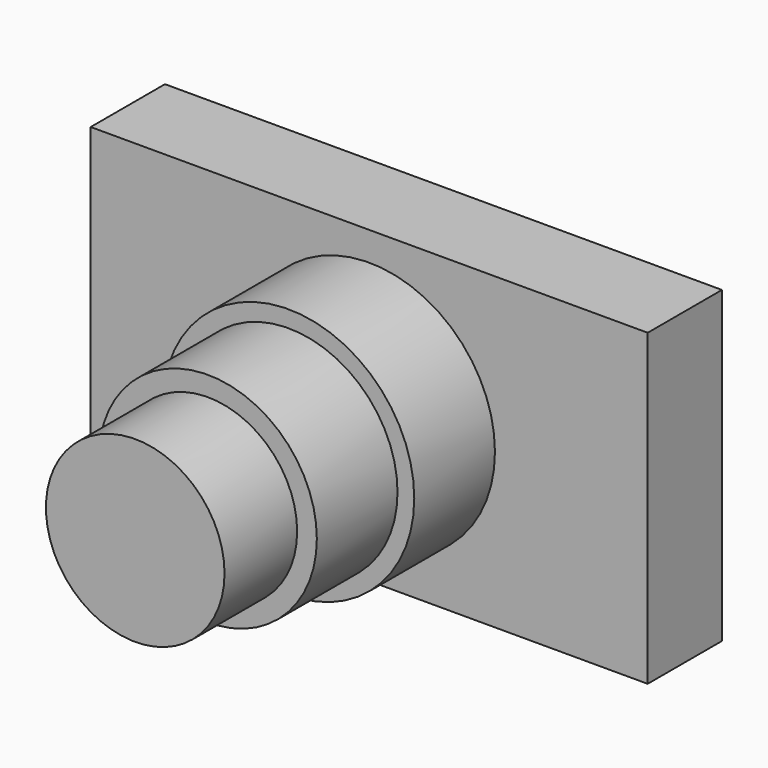
from build123d import *

# Parameters (mm, degrees)
F0_W     = 140.272602
F0_H     = 77.840932
F1_DEPTH = 23.368
F2_R     = 31.667864
F3_DEPTH = 25.4
F4_R     = 27.452249
F5_DEPTH = 25.4
F6_R     = 22.492116
F7_DEPTH = 22.86


with BuildPart() as f1:
    # F0 (on Front) → F1 (new body)
    with BuildSketch(Plane.XZ):
        Rectangle(F0_W, F0_H)
    extrude(amount=F1_DEPTH)

    # F2 (on face) → F3 (join)
    with BuildSketch(Plane.XZ.offset(23.368)):
        Circle(F2_R)
    extrude(amount=F3_DEPTH)

    # F4 (on face) → F5 (join)
    with BuildSketch(Plane.XZ.offset(48.768)):
        Circle(F4_R)
    extrude(amount=F5_DEPTH)

    # F6 (on face) → F7 (join)
    with BuildSketch(Plane.XZ.offset(74.168)):
        Circle(F6_R)
    extrude(amount=F7_DEPTH)


solid = f1.part
